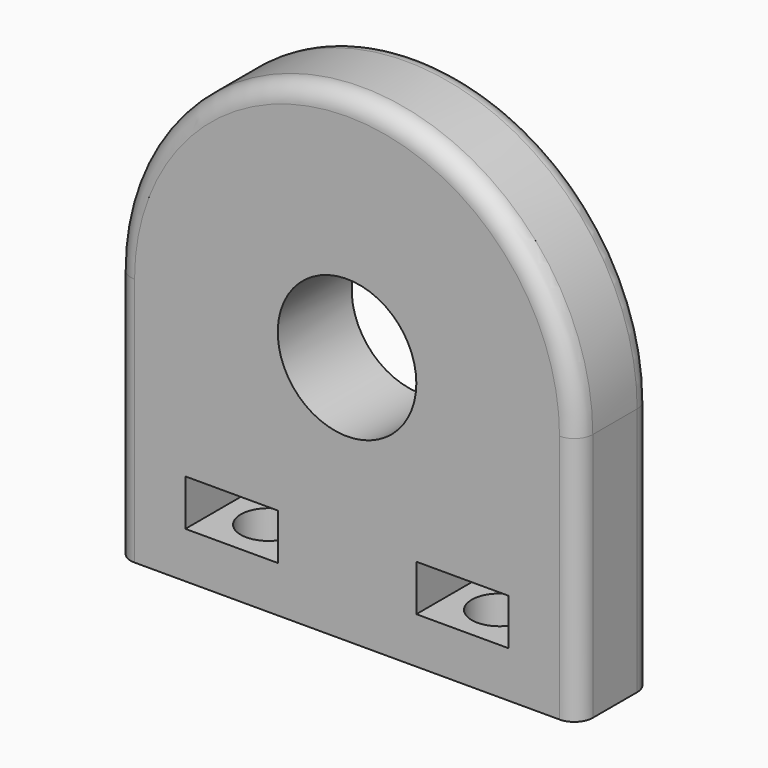
from build123d import *

# Parameters (mm, degrees)
SKETCH_R        = 7.5
PAD_DEPTH       = 10
SKETCH002_W     = 10
SKETCH002_H     = 5
POCKET001_DEPTH = 10.001
SKETCH003_R     = 3
POCKET002_DEPTH = 15
SKETCH001_R     = 5.25
POCKET_DEPTH    = 7
FILLET_R        = 2
FILLET001_R     = 2


with BuildPart() as part:
    # Sketch → Pad (new body)
    with BuildSketch(Plane.XZ):
        with BuildLine():
            Line((-25, 0), (-25, 27))
            ThreePointArc((25, 27), (0, 52), (-25, 27))
            Line((25, 27), (25, 0))
            Line((25, 0), (-25, 0))
        make_face()
        with Locations((0, 27)):
            Circle(SKETCH_R, mode=Mode.SUBTRACT)
    extrude(amount=PAD_DEPTH)

    # Sketch002 → Pocket001 (cut, through all)
    with BuildSketch(Plane.XZ.offset(10)):
        with Locations((-12.5, 7.5)):
            Rectangle(SKETCH002_W, SKETCH002_H)
        with Locations((12.5, 7.5)):
            Rectangle(SKETCH002_W, SKETCH002_H)
    extrude(amount=-POCKET001_DEPTH, mode=Mode.SUBTRACT)

    # Sketch003 (on Face2 of Pocket001) → Pocket002 (cut)
    with BuildSketch(Plane(origin=(0, 0, 0), x_dir=(1, 0, 0), z_dir=(0, 0, -1))):
        with Locations((-12.5, 5)):
            Circle(SKETCH003_R)
        with Locations((12.5, 5)):
            Circle(SKETCH003_R)
    extrude(amount=-POCKET002_DEPTH, mode=Mode.SUBTRACT)

    # Sketch001 (on Face6 of Pad) → Pocket (cut)
    with BuildSketch(Plane(origin=(0, 0, 0), x_dir=(1, 0, 0), z_dir=(0, 1, 0))):
        with Locations((14, -27)):
            Circle(SKETCH001_R)
        with Locations((0, -13)):
            Circle(SKETCH001_R)
        with Locations((0, -41)):
            Circle(SKETCH001_R)
        with Locations((-14, -27)):
            Circle(SKETCH001_R)
    extrude(amount=-POCKET_DEPTH, mode=Mode.SUBTRACT)

    # Fillet
    fillet_edges = [part.edges().sort_by_distance(p)[0] for p in [
        (-25, 0, 13.5),
    ]]
    fillet(fillet_edges, radius=FILLET_R)

    # Fillet001
    fillet001_edges = [part.edges().sort_by_distance(p)[0] for p in [
        (25, -10, 13.5),
    ]]
    fillet(fillet001_edges, radius=FILLET001_R)


solid = part.part
